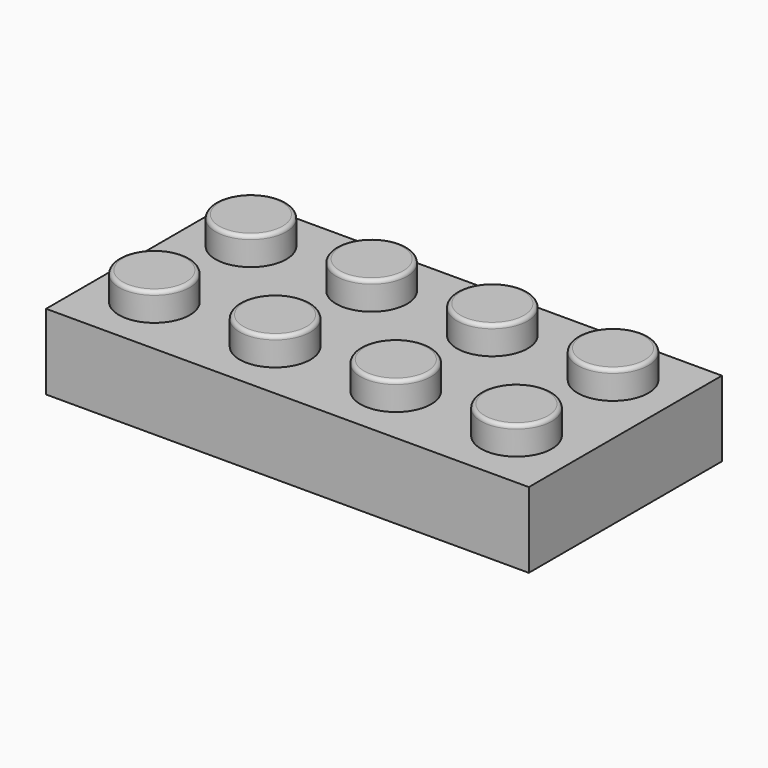
from build123d import *

# Parameters (mm, degrees)
F0_W     = 32
F0_H     = 16
F1_DEPTH = 5.0038
F2_R     = 2.3495
F3_DEPTH = 1.8542
F4_R     = 0.25
F5_W     = 29.0028
F5_H     = 13.0028
F5_R     = 3.2512
F5_R_2   = 2.4003
F6_DEPTH = 3.5052


with BuildPart() as f1:
    # F0 (on Top) → F1 (new body)
    with BuildSketch(Plane.XY):
        with Locations((16, 8)):
            Rectangle(F0_W, F0_H)
    extrude(amount=F1_DEPTH)

    # F2 (on face) → F3 (join)
    with BuildSketch(Plane.XY.offset(5.0038)):
        with Locations((3.8989, 4.1001)):
            Circle(F2_R)
        with Locations((11.8999, 4.1001)):
            Circle(F2_R)
        with Locations((19.9009, 4.1001)):
            Circle(F2_R)
        with Locations((3.8989, 12.1011)):
            Circle(F2_R)
        with Locations((11.8999, 12.1011)):
            Circle(F2_R)
        with Locations((19.9009, 12.1011)):
            Circle(F2_R)
        with Locations((27.9019, 12.1011)):
            Circle(F2_R)
        with Locations((27.9019, 4.1001)):
            Circle(F2_R)
    extrude(amount=F3_DEPTH)

    # F4
    f4_edges = [f1.edges().sort_by_distance(p)[0] for p in [
        (1.5494, 4.1001, 6.858),
        (9.5504, 4.1001, 6.858),
        (17.5514, 4.1001, 6.858),
        (25.5524, 4.1001, 6.858),
        (25.5524, 12.1011, 6.858),
        (17.5514, 12.1011, 6.858),
        (9.5504, 12.1011, 6.858),
        (1.5494, 12.1011, 6.858),
    ]]
    fillet(f4_edges, radius=F4_R)

    # F5 (on face) → F6 (cut)
    with BuildSketch(Plane(origin=(0, 0, 0), x_dir=(1, 0, 0), z_dir=(0, 0, -1))):
        with Locations((16, -8)):
            Rectangle(F5_W, F5_H)
        with Locations((8.001, -8)):
            Circle(F5_R, mode=Mode.SUBTRACT)
        with Locations((16, -8)):
            Circle(F5_R, mode=Mode.SUBTRACT)
        with Locations((23.999, -8)):
            Circle(F5_R, mode=Mode.SUBTRACT)
        with Locations((23.999, -8)):
            Circle(F5_R_2)
        with Locations((16, -8)):
            Circle(F5_R_2)
        with Locations((8.001, -8)):
            Circle(F5_R_2)
    extrude(amount=-F6_DEPTH, mode=Mode.SUBTRACT)


solid = f1.part
